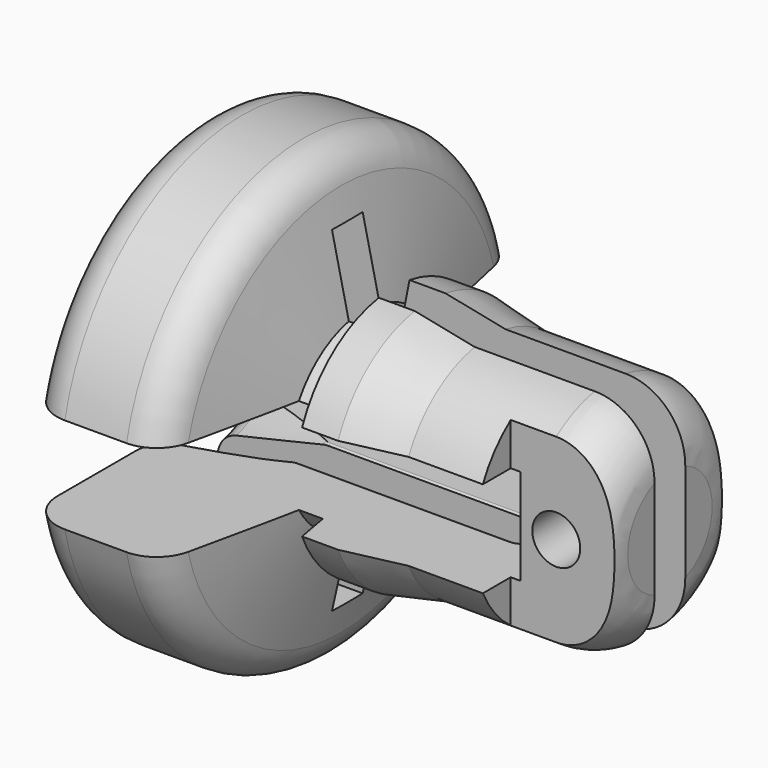
from build123d import *

# Parameters (mm, degrees)
F2_W      = 3.2
F2_H      = 28
F3_DEPTH  = 50
F5_W      = 49.945933387
F5_H      = 8
F6_DEPTH  = 32
F7_R      = 2
F8_DEPTH  = 12.5
F9_W      = 9.5
F9_H      = 4
F10_DEPTH = 12.5


with BuildPart() as f1:
    # F0 (on Front) → F1 (revolve)
    with BuildSketch(Plane.XZ):
        with BuildLine():
            Line((-18.5, 7.9), (-20.5, 7.9))
            Line((-20.5, 7.9), (-22.4361672715, 16.4191359947))
            ThreePointArc((-22.4361672715, 16.4191359947), (-23.5557810644, 18.2037319241), (-25.5441292339, 18.9))
            Line((-25.5441292339, 18.9), (-30.6901175351, 18.9))
            ThreePointArc((-30.6901175351, 18.9), (-33.030557871, 17.930557871), (-34, 15.5901175351))
            Line((-34, 15.5901175351), (-34, 8.0043432127))
            ThreePointArc((-34, 8.0043432127), (-33.5600836246, 6.7528884255), (-32.4338609156, 6.0519690924))
            Line((-32.4338609156, 6.0519690924), (-25.2143164583, 4.4476258796))
            ThreePointArc((-25.2143164583, 4.4476258796), (-24.9986890865, 4.4119421235), (-24.7804555427, 4.4))
            Line((-24.7804555427, 4.4), (-7, 4.4))
            ThreePointArc((-7, 4.4), (-5.5857864376, 3.8142135624), (-5, 2.4))
            Line((-5, 2.4), (-5, 0))
            Line((-5, 0), (5, 0))
            Line((5, 0), (5, 4.4))
            ThreePointArc((5, 4.4), (3.5355339059, 7.9355339059), (0, 9.4))
            Line((0, 9.4), (-10, 9.4))
            Line((-10, 9.4), (-15, 10.4))
            Line((-15, 10.4), (-18, 10.4))
            Line((-18, 10.4), (-18.5, 7.9))
        make_face()
    revolve(axis=Axis((0, 0, 0), (-1, 0, 0)))

    # F2 (on Right) → F3 (cut, symmetric)
    with BuildSketch(Plane.YZ):
        Rectangle(F2_W, F2_H)
    extrude(amount=F3_DEPTH, both=True, mode=Mode.SUBTRACT)

    # F5 (on offset) → F6 (cut)
    with BuildSketch(Plane.YZ.offset(-3)):
        Rectangle(F5_W, F5_H)
    extrude(amount=-F6_DEPTH, mode=Mode.SUBTRACT)

    # F7 (on Front) → F8 (cut, symmetric)
    with BuildSketch(Plane.XZ):
        Circle(F7_R)
    extrude(amount=F8_DEPTH, both=True, mode=Mode.SUBTRACT)

    # F9 (on Top) → F10 (cut, symmetric)
    with BuildSketch(Plane.XY):
        with Locations((0.95, 7.6)):
            Rectangle(F9_W, F9_H)
        with Locations((0.95, -7.6)):
            Rectangle(F9_W, F9_H)
    extrude(amount=F10_DEPTH, both=True, mode=Mode.SUBTRACT)


solid = f1.part
